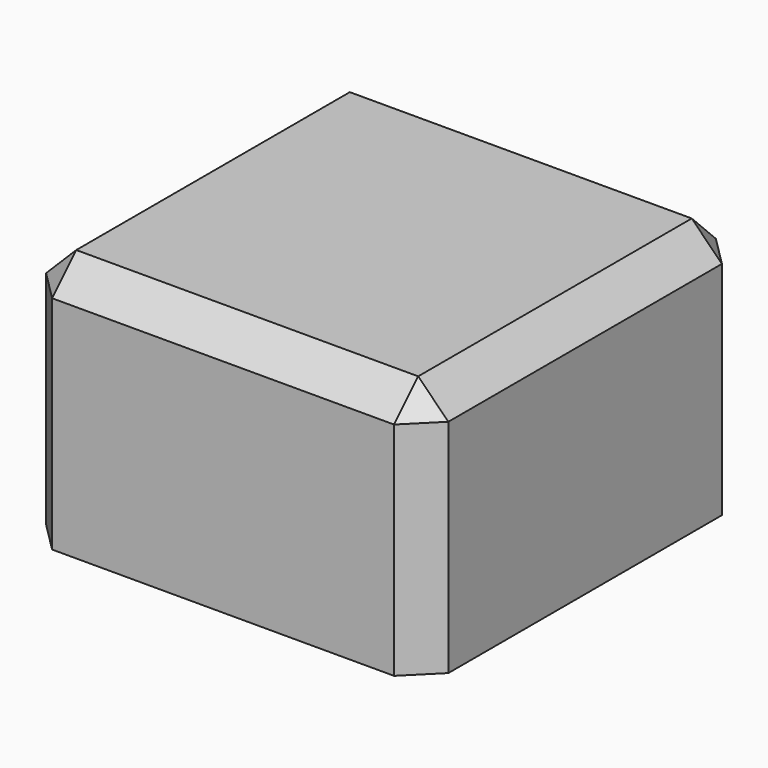
from build123d import *

# Parameters (mm, degrees)
F0_W     = 8
F0_H     = 8
F1_DEPTH = 5
F2_W     = 3.4
F2_H     = 2.4
F3_DEPTH = 3.2
F5_W     = 0.2
F5_H     = 2.4
F6_DEPTH = 0.9
F7_SIZE  = 0.1
F8_SIZE  = 0.6


with BuildPart() as f1:
    # F0 (on Top) → F1 (new body)
    with BuildSketch(Plane.XY):
        Rectangle(F0_W, F0_H)
    extrude(amount=F1_DEPTH)

    # F2 (on Top) → F3 (cut)
    with BuildSketch(Plane.XY):
        Rectangle(F2_W, F2_H)
    extrude(amount=F3_DEPTH, mode=Mode.SUBTRACT)

    # F5 (on offset) → F6 (join)
    with BuildSketch(Plane.XY.offset(1)):
        with Locations((-1.6, 0)):
            Rectangle(F5_W, F5_H)
        with Locations((1.6, 0)):
            Rectangle(F5_W, F5_H)
    extrude(amount=F6_DEPTH)

    # F7
    f7_edges = [f1.edges().sort_by_distance(p)[0] for p in [
        (-1.5, 0, 1),
        (-1.5, 0, 1.9),
        (1.5, 0, 1),
        (1.5, 0, 1.9),
    ]]
    chamfer(f7_edges, length=F7_SIZE)

    # F8
    f8_edges = [f1.edges().sort_by_distance(p)[0] for p in [
        (4, 0, 5),
        (-4, 0, 5),
        (0, -4, 5),
        (0, 4, 5),
        (4, -4, 2.5),
        (4, 4, 2.5),
        (-4, -4, 2.5),
        (-4, 4, 2.5),
    ]]
    chamfer(f8_edges, length=F8_SIZE)


solid = f1.part
